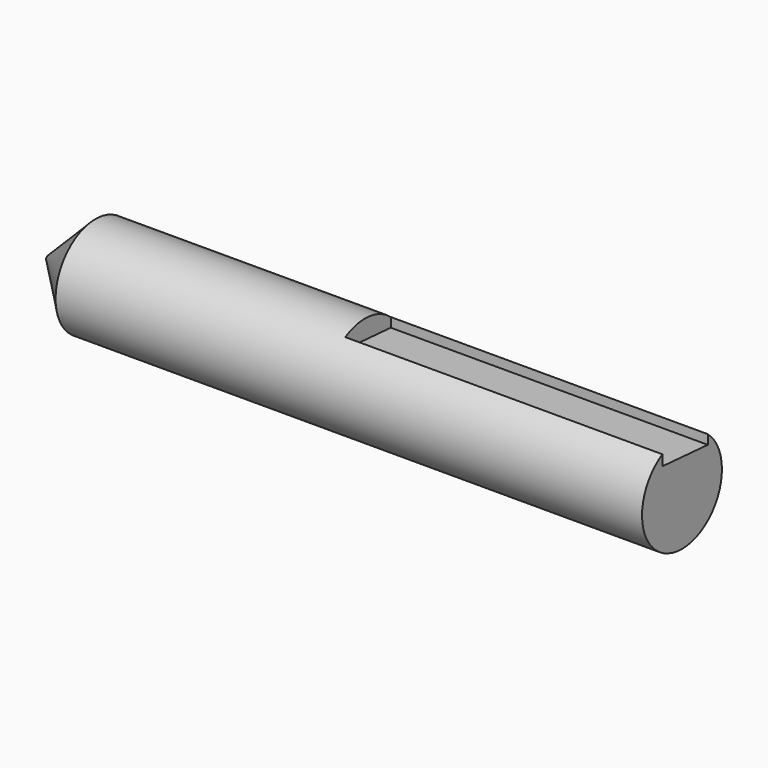
from build123d import *

# Parameters (mm, degrees)
F0_W     = 40
F0_H     = 3.15
F2_SIZE  = 3
F4_DEPTH = 20


with BuildPart() as f1:
    # F0 (on Front) → F1 (revolve)
    with BuildSketch(Plane.XZ):
        with Locations((20, 1.575)):
            Rectangle(F0_W, F0_H)
    revolve(axis=Axis((20, 0, 3.15), (1, 0, 0)))

    # F2
    f2_edges = [f1.edges().sort_by_distance(p)[0] for p in [
        (0, 0, 6.3),
    ]]
    chamfer(f2_edges, length=F2_SIZE)

    # F3 (on face) → F4 (cut)
    with BuildSketch(Plane.YZ.offset(40)):
        Polygon((2.034494, 6.619173), (-1.549196, 6.880851), (-1.549196, 5.222723), (2.034494, 4.961044), align=None)
    extrude(amount=-F4_DEPTH, mode=Mode.SUBTRACT)


solid = f1.part
